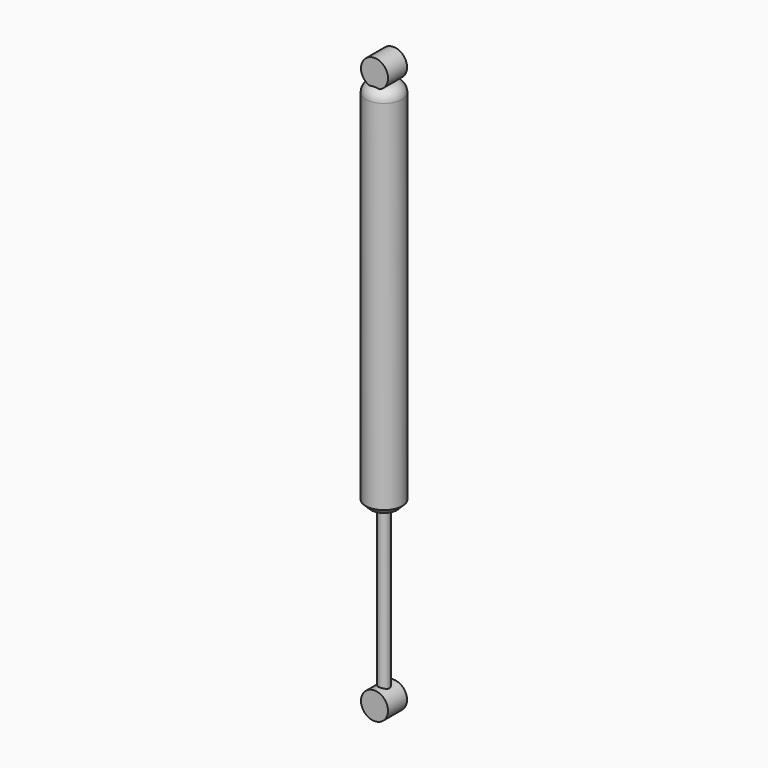
from build123d import *

# Parameters (mm, degrees)
F0_R     = 4.9890493126
F1_DEPTH = 152
F3_R     = 16.915720731
F3_R_2   = 4.9890493126
F4_DEPTH = 346.1980521679
F5_R     = 10.139696962
F6_SIZE  = 5
F2_R     = 12.5
F7_DEPTH = 11


with BuildPart() as f1:
    # F0 (on Top) → F1 (new body)
    with BuildSketch(Plane.XY):
        Circle(F0_R)
    extrude(amount=F1_DEPTH)

    # F2 (on Front) → F7 (join, symmetric)
    with BuildSketch(Plane.XZ):
        with Locations((0, -6.628853715)):
            Circle(F2_R)
    extrude(amount=F7_DEPTH, both=True)


with BuildPart() as f4:
    # F3 (on face) → F4 (new body)
    with BuildSketch(Plane.XY.offset(152)):
        Circle(F3_R)
        Circle(F3_R_2, mode=Mode.SUBTRACT)
    extrude(amount=F4_DEPTH)

    # F5
    f5_edges = [f4.edges().sort_by_distance(p)[0] for p in [
        (-16.915721, 0, 498.198052),
    ]]
    fillet(f5_edges, radius=F5_R)

    # F6
    f6_edges = [f4.edges().sort_by_distance(p)[0] for p in [
        (-16.915721, 0, 152),
    ]]
    chamfer(f6_edges, length=F6_SIZE)

    # F2 (on Front) → F7, piece 2 (join, symmetric)
    with BuildSketch(Plane.XZ):
        with Locations((0, 508.371146285)):
            Circle(F2_R)
    extrude(amount=F7_DEPTH, both=True)


solid = Compound([f1.part, f4.part])
